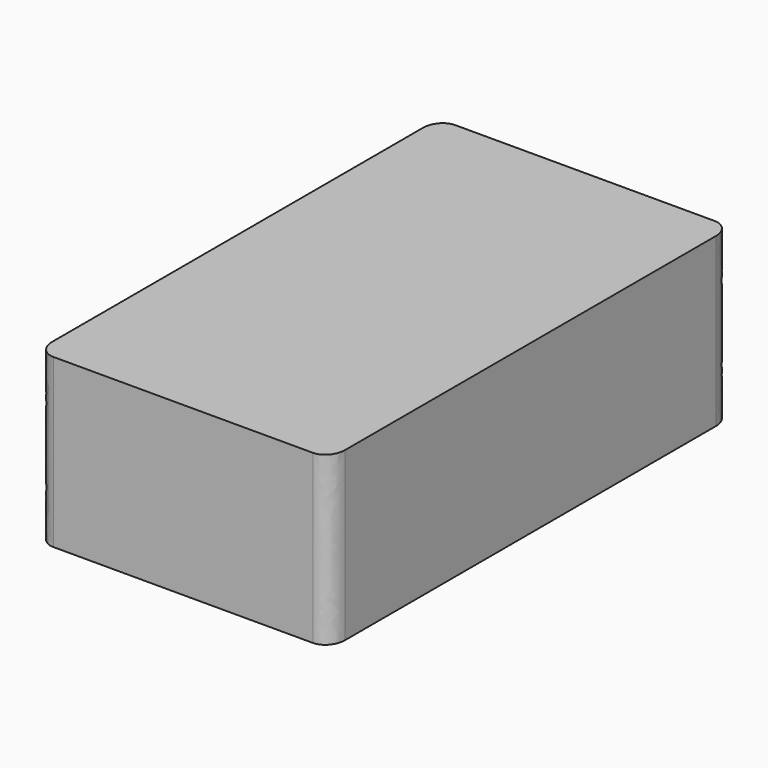
from build123d import *

# Parameters (mm, degrees)
F1_DEPTH = 50.8


with BuildPart() as f1:
    # F0 (on Top) → F1 (new body)
    with BuildSketch(Plane.XY):
        with BuildLine():
            add(Edge.make_bspline(
                [(-33.5600493577, 51.7459073931), (-38.6400493577, 51.7459073931), (-38.6400493577, 45.8800286581)],
                knots=[0, 0, 0, 1.5707963268, 1.5707963268, 1.5707963268], degree=2, weights=[1, 0.7071067812, 1]))
            Line((-38.6400493577, 45.8800286581), (-38.6400493577, -94.7882138719))
            add(Edge.make_bspline(
                [(-38.6400493577, -94.7882138719), (-38.6400493577, -100.6540926069), (-33.5600493577, -100.6540926069)],
                knots=[1.5707963268, 1.5707963268, 1.5707963268, 3.1415926536, 3.1415926536, 3.1415926536], degree=2, weights=[1, 0.7071067812, 1]))
            Line((-33.5600493577, -100.6540926069), (45.1799506423, -100.6540926069))
            add(Edge.make_bspline(
                [(45.1799506423, -100.6540926069), (50.2599506423, -100.6540926069), (50.2599506423, -94.7882138719)],
                knots=[0, 0, 0, 1.5707963268, 1.5707963268, 1.5707963268], degree=2, weights=[1, 0.7071067812, 1]))
            Line((50.2599506423, -94.7882138719), (50.2599506423, 45.8800286581))
            add(Edge.make_bspline(
                [(50.2599506423, 45.8800286581), (50.2599506423, 51.7459073931), (45.1799506423, 51.7459073931)],
                knots=[1.5707963268, 1.5707963268, 1.5707963268, 3.1415926536, 3.1415926536, 3.1415926536], degree=2, weights=[1, 0.7071067812, 1]))
            Line((45.1799506423, 51.7459073931), (-33.5600493577, 51.7459073931))
        make_face()
    extrude(amount=-F1_DEPTH)


solid = f1.part
